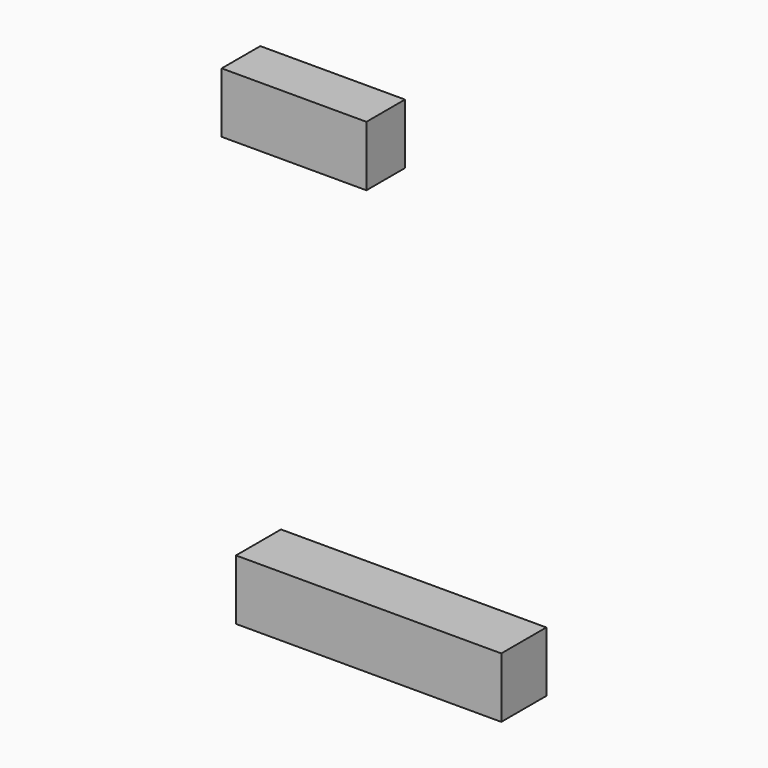
from build123d import *

# Parameters (mm, degrees)
F0_W     = 33
F0_H     = 7
F1_DEPTH = 7.5
F3_W     = 18
F3_H     = 6
F4_DEPTH = 7.5


with BuildPart() as f1:
    # F0 (on Top) → F1 (new body)
    with BuildSketch(Plane.XY):
        with Locations((-4.433752, 8.650231)):
            Rectangle(F0_W, F0_H)
    extrude(amount=F1_DEPTH)


with BuildPart() as f4:
    # F3 (on offset) → F4 (new body)
    with BuildSketch(Plane.XY.offset(40)):
        with Locations((-29.012308, 27.279634)):
            Rectangle(F3_W, F3_H)
    extrude(amount=F4_DEPTH)


solid = Compound([f1.part, f4.part])
